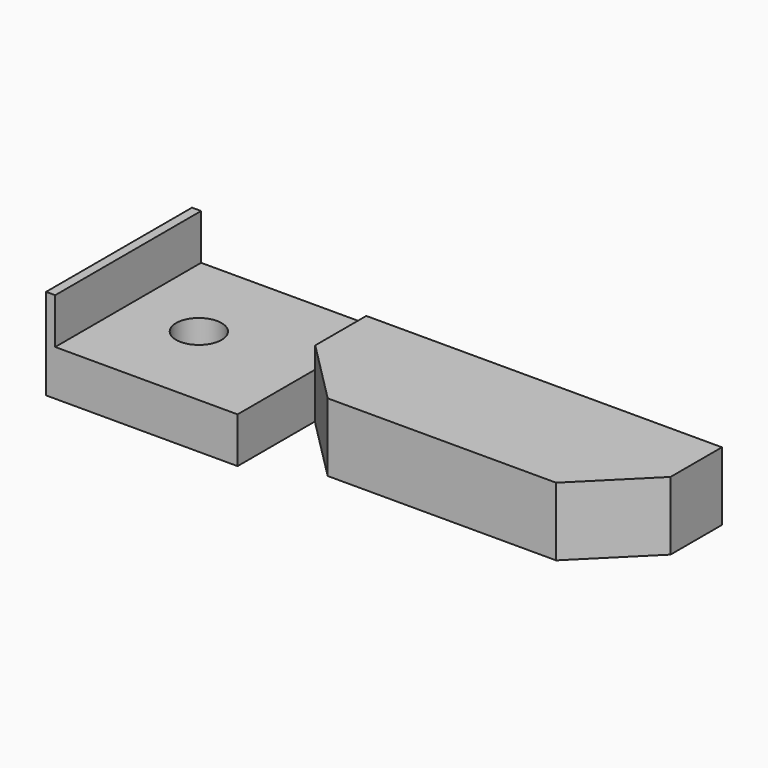
from build123d import *

# Parameters (mm, degrees)
F0_W           = 2
F0_H           = 7
F0_W_2         = 25
F0_H_2         = 5
F0_W_3         = 1.5
F1_DEPTH       = 3.5
F2_DEPTH       = 1.5
F3_DEPTH       = 4
F4_W           = 1
F4_H           = 20
F5_DEPTH       = 5
F4_W_2         = 20
F6_DEPTH       = 5
F8_D           = 2.75
F8_CBORE_D     = 5
F8_CBORE_DEPTH = 4


with BuildPart() as f1:
    # F0 (on Top) → F1 (new body)
    with BuildSketch(Plane.XY):
        with Locations((-5.9666161537, -5.1684066913)):
            Rectangle(F0_W, F0_H)
        Polygon((32.0333838463, -1.6684066913), (30.0333838463, -1.6684066913), (30.0333838463, -8.6684066913), (32.0333838463, -8.7107298896), align=None)
        Polygon((0.0333838463, -13.6684066913), (-4.9666161537, -8.6684066913), (-6.9666161537, -8.6684066913), (0, -15.6681280516), align=None)
        Polygon((25.0333838463, -13.6684066913), (0.0333838463, -13.6684066913), (0, -15.6681280516), (25.0503603182, -15.6681280516), align=None)
        Polygon((32.0333838463, -8.7107298896), (30.0333838463, -8.6684066913), (25.0333838463, -13.6684066913), (25.0503603182, -15.6681280516), align=None)
        with Locations((12.5333838463, -11.1684066913)):
            Rectangle(F0_W_2, F0_H_2)
        Polygon((0.0333838463, -8.6684066913), (-4.9666161537, -8.6684066913), (0.0333838463, -13.6684066913), align=None)
        Polygon((30.0333838463, -8.6684066913), (28.5333838463, -8.6684066913), (25.0333838463, -8.6684066913), (25.0333838463, -13.6684066913), align=None)
        Polygon((28.5333838463, -1.6684066913), (-4.9666161537, -1.6684066913), (-4.9666161537, -8.6684066913), (0.0333838463, -8.6684066913), (25.0333838463, -8.6684066913), (28.5333838463, -8.6684066913), align=None)
        with Locations((29.2833838463, -5.1684066913)):
            Rectangle(F0_W_3, F0_H)
        Polygon((28.5333838463, -1.6684066913), (-4.9666161537, -1.6684066913), (-4.9666161537, -8.6684066913), (0.0333838463, -8.6684066913), (25.0333838463, -8.6684066913), (28.5333838463, -8.6684066913), align=None)
    extrude(amount=F1_DEPTH)

    # F0 (on Top) → F2 (cut)
    with BuildSketch(Plane.XY):
        with Locations((29.2833838463, -5.1684066913)):
            Rectangle(F0_W_3, F0_H)
        Polygon((28.5333838463, -1.6684066913), (-4.9666161537, -1.6684066913), (-4.9666161537, -8.6684066913), (0.0333838463, -8.6684066913), (25.0333838463, -8.6684066913), (28.5333838463, -8.6684066913), align=None)
        Polygon((30.0333838463, -8.6684066913), (28.5333838463, -8.6684066913), (25.0333838463, -8.6684066913), (25.0333838463, -13.6684066913), align=None)
        with Locations((12.5333838463, -11.1684066913)):
            Rectangle(F0_W_2, F0_H_2)
        Polygon((0.0333838463, -8.6684066913), (-4.9666161537, -8.6684066913), (0.0333838463, -13.6684066913), align=None)
        with Locations((-5.9666161537, -5.1684066913)):
            Rectangle(F0_W, F0_H)
    extrude(amount=F2_DEPTH, mode=Mode.SUBTRACT)

    # F0 (on Top) → F3 (join)
    with BuildSketch(Plane.XY):
        Polygon((32.0333838463, -1.6684066913), (30.0333838463, -1.6684066913), (30.0333838463, -8.6684066913), (32.0333838463, -8.7107298896), align=None)
        Polygon((32.0333838463, -8.7107298896), (30.0333838463, -8.6684066913), (25.0333838463, -13.6684066913), (25.0503603182, -15.6681280516), align=None)
        Polygon((30.0333838463, -8.6684066913), (28.5333838463, -8.6684066913), (25.0333838463, -8.6684066913), (25.0333838463, -13.6684066913), align=None)
        Polygon((28.5333838463, -1.6684066913), (-4.9666161537, -1.6684066913), (-4.9666161537, -8.6684066913), (0.0333838463, -8.6684066913), (25.0333838463, -8.6684066913), (28.5333838463, -8.6684066913), align=None)
        with Locations((12.5333838463, -11.1684066913)):
            Rectangle(F0_W_2, F0_H_2)
        Polygon((25.0333838463, -13.6684066913), (0.0333838463, -13.6684066913), (0, -15.6681280516), (25.0503603182, -15.6681280516), align=None)
        Polygon((0.0333838463, -13.6684066913), (-4.9666161537, -8.6684066913), (-6.9666161537, -8.6684066913), (0, -15.6681280516), align=None)
        Polygon((0.0333838463, -8.6684066913), (-4.9666161537, -8.6684066913), (0.0333838463, -13.6684066913), align=None)
        with Locations((-5.9666161537, -5.1684066913)):
            Rectangle(F0_W, F0_H)
    extrude(amount=-F3_DEPTH)


with BuildPart() as f5:
    # F4 (on Top) → F5 (new body)
    with BuildSketch(Plane.XY):
        with Locations((-28.8674156551, -7.5615978579)):
            Rectangle(F4_W, F4_H)
    extrude(amount=F5_DEPTH)

    # F4 (on Top) → F6 (join)
    with BuildSketch(Plane.XY):
        with Locations((-18.3674156551, -7.5615978579)):
            Rectangle(F4_W_2, F4_H)
        with Locations((-28.8674156551, -7.5615978579)):
            Rectangle(F4_W, F4_H)
    extrude(amount=-F6_DEPTH)

    # F8 (through all)
    with Locations(Plane.XY):
        with Locations((-20.560676232, -7.6278164051), (-20.560676232, -7.6278164051)):
            CounterBoreHole(F8_D / 2, F8_CBORE_D / 2, F8_CBORE_DEPTH)


solid = Compound([f1.part, f5.part])
